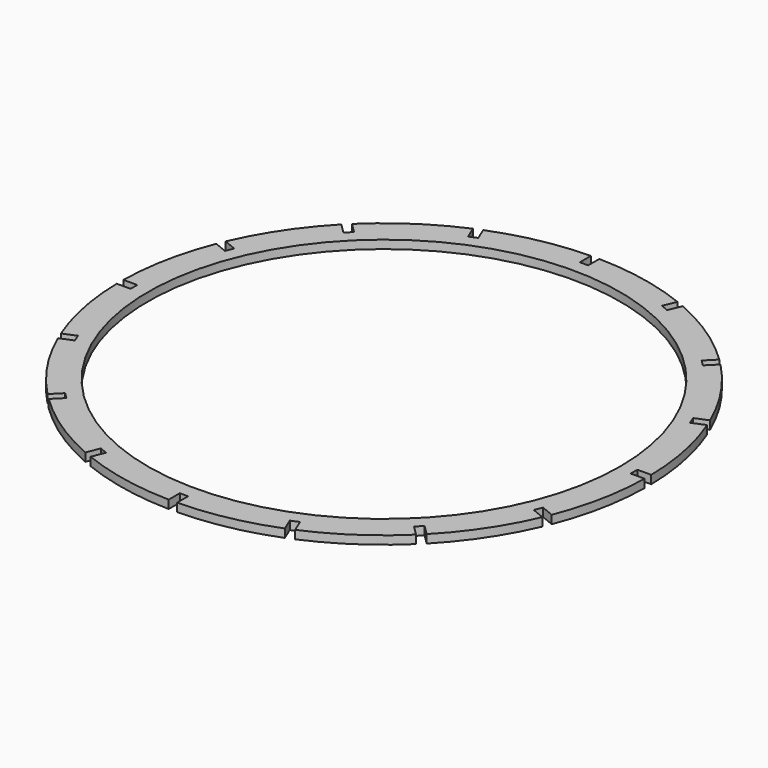
from build123d import *

# Parameters (mm, degrees)
F0_R     = 85
F1_DEPTH = 3


with BuildPart() as f1:
    # F0 (on Top) → F1 (new body)
    with BuildSketch(Plane.XY):
        with BuildLine():
            Line((90, 1.5), (94.988157, 1.5))
            ThreePointArc((94.988157, 1.5), (93.174602, 18.533581), (88.331639, 34.964575))
            Line((88.331639, 34.964575), (83.723183, 33.05569))
            Line((83.723183, 33.05569), (82.575133, 35.827328))
            Line((82.575133, 35.827328), (87.183589, 37.736213))
            ThreePointArc((87.183589, 37.736213), (78.989613, 52.779172), (68.22743, 66.10611))
            Line((68.22743, 66.10611), (64.70027, 62.57895))
            Line((64.70027, 62.57895), (62.57895, 64.70027))
            Line((62.57895, 64.70027), (66.10611, 68.22743))
            ThreePointArc((66.10611, 68.22743), (52.779172, 78.989613), (37.736213, 87.183589))
            Line((37.736213, 87.183589), (35.827328, 82.575133))
            Line((35.827328, 82.575133), (33.05569, 83.723183))
            Line((33.05569, 83.723183), (34.964575, 88.331639))
            ThreePointArc((34.964575, 88.331639), (18.533581, 93.174602), (1.5, 94.988157))
            Line((1.5, 94.988157), (1.5, 90))
            Line((1.5, 90), (-1.5, 90))
            Line((-1.5, 90), (-1.5, 94.988157))
            ThreePointArc((-1.5, 94.988157), (-18.533581, 93.174602), (-34.964575, 88.331639))
            Line((-34.964575, 88.331639), (-33.05569, 83.723183))
            Line((-33.05569, 83.723183), (-35.827328, 82.575133))
            Line((-35.827328, 82.575133), (-37.736213, 87.183589))
            ThreePointArc((-37.736213, 87.183589), (-52.779172, 78.989613), (-66.10611, 68.22743))
            Line((-66.10611, 68.22743), (-62.57895, 64.70027))
            Line((-62.57895, 64.70027), (-64.70027, 62.57895))
            Line((-64.70027, 62.57895), (-68.22743, 66.10611))
            ThreePointArc((-68.22743, 66.10611), (-78.989613, 52.779172), (-87.183589, 37.736213))
            Line((-87.183589, 37.736213), (-82.575133, 35.827328))
            Line((-82.575133, 35.827328), (-83.723183, 33.05569))
            Line((-83.723183, 33.05569), (-88.331639, 34.964575))
            ThreePointArc((-88.331639, 34.964575), (-93.174602, 18.533581), (-94.988157, 1.5))
            Line((-94.988157, 1.5), (-90, 1.5))
            Line((-90, 1.5), (-90, -1.5))
            Line((-90, -1.5), (-94.988157, -1.5))
            ThreePointArc((-94.988157, -1.5), (-93.174602, -18.533581), (-88.331639, -34.964575))
            Line((-88.331639, -34.964575), (-83.723183, -33.05569))
            Line((-83.723183, -33.05569), (-82.575133, -35.827328))
            Line((-82.575133, -35.827328), (-87.183589, -37.736213))
            ThreePointArc((-87.183589, -37.736213), (-78.989613, -52.779172), (-68.22743, -66.10611))
            Line((-68.22743, -66.10611), (-64.70027, -62.57895))
            Line((-64.70027, -62.57895), (-62.57895, -64.70027))
            Line((-62.57895, -64.70027), (-66.10611, -68.22743))
            ThreePointArc((-66.10611, -68.22743), (-52.779172, -78.989613), (-37.736213, -87.183589))
            Line((-37.736213, -87.183589), (-35.827328, -82.575133))
            Line((-35.827328, -82.575133), (-33.05569, -83.723183))
            Line((-33.05569, -83.723183), (-34.964575, -88.331639))
            ThreePointArc((-34.964575, -88.331639), (-18.533581, -93.174602), (-1.5, -94.988157))
            Line((-1.5, -94.988157), (-1.5, -90))
            Line((-1.5, -90), (1.5, -90))
            Line((1.5, -90), (1.5, -94.988157))
            ThreePointArc((1.5, -94.988157), (18.533581, -93.174602), (34.964575, -88.331639))
            Line((34.964575, -88.331639), (33.05569, -83.723183))
            Line((33.05569, -83.723183), (35.827328, -82.575133))
            Line((35.827328, -82.575133), (37.736213, -87.183589))
            ThreePointArc((37.736213, -87.183589), (52.779172, -78.989613), (66.10611, -68.22743))
            Line((66.10611, -68.22743), (62.57895, -64.70027))
            Line((62.57895, -64.70027), (64.70027, -62.57895))
            Line((64.70027, -62.57895), (68.22743, -66.10611))
            ThreePointArc((68.22743, -66.10611), (78.989613, -52.779172), (87.183589, -37.736213))
            Line((87.183589, -37.736213), (82.575133, -35.827328))
            Line((82.575133, -35.827328), (83.723183, -33.05569))
            Line((83.723183, -33.05569), (88.331639, -34.964575))
            ThreePointArc((88.331639, -34.964575), (93.174602, -18.533581), (94.988157, -1.5))
            Line((94.988157, -1.5), (90, -1.5))
            Line((90, -1.5), (90, 1.5))
        make_face()
        Circle(F0_R, mode=Mode.SUBTRACT)
    extrude(amount=F1_DEPTH)


solid = f1.part
